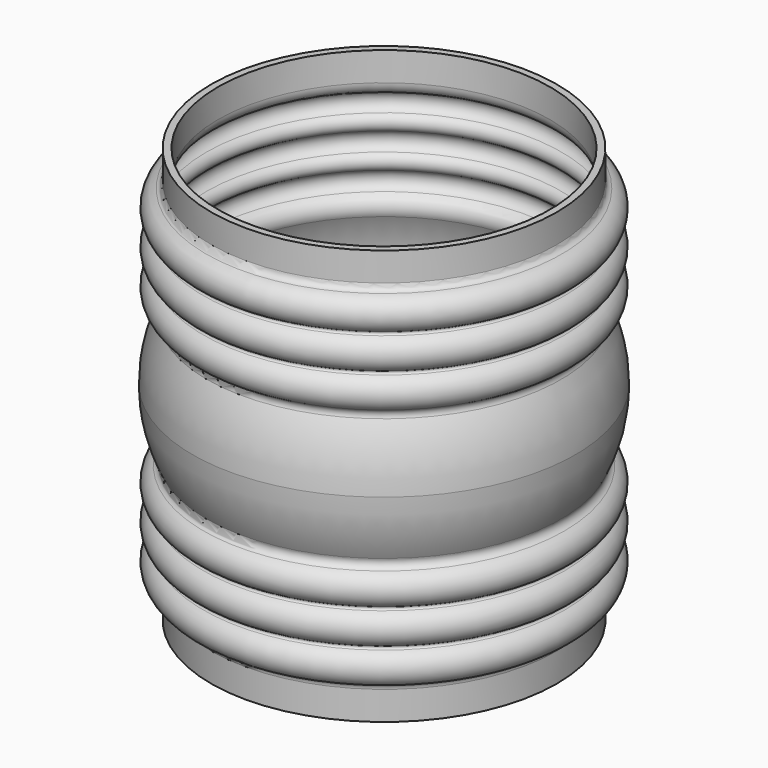
from build123d import *

# Parameters (mm, degrees)
F2_T = -2.54


with BuildPart() as f1:
    # F0 (on Front) → F1 (revolve)
    with BuildSketch(Plane.XZ):
        with BuildLine():
            Line((-63.5, 0), (0, 0))
            Line((0, 0), (0, 76.2))
            Line((0, 76.2), (0, 152.4))
            Line((0, 152.4), (-63.5, 152.4))
            Line((-63.5, 152.4), (-63.5, 141.869419))
            ThreePointArc((-63.5, 141.869419), (-64.003469, 140.351479), (-65.314286, 139.435299))
            ThreePointArc((-65.314286, 139.435299), (-69.825038, 133.912489), (-66.359659, 127.680357))
            ThreePointArc((-66.359659, 127.680357), (-65.940818, 127), (-66.359659, 126.319643))
            ThreePointArc((-66.359659, 126.319643), (-69.85, 120.65), (-66.359659, 114.980357))
            ThreePointArc((-66.359659, 114.980357), (-65.940818, 114.3), (-66.359659, 113.619643))
            ThreePointArc((-66.359659, 113.619643), (-69.849422, 107.864318), (-66.205629, 102.205257))
            ThreePointArc((-66.205629, 102.205257), (-64.889107, 100.742516), (-65.012548, 98.778438))
            ThreePointArc((-65.012548, 98.778438), (-68.964868, 87.795317), (-70.305909, 76.2))
            ThreePointArc((-70.305909, 76.2), (-68.964868, 64.604683), (-65.012548, 53.621562))
            ThreePointArc((-65.012548, 53.621562), (-64.889107, 51.657484), (-66.205629, 50.194743))
            ThreePointArc((-66.205629, 50.194743), (-69.849422, 44.535682), (-66.359659, 38.780357))
            ThreePointArc((-66.359659, 38.780357), (-65.940818, 38.1), (-66.359659, 37.419643))
            ThreePointArc((-66.359659, 37.419643), (-69.85, 31.75), (-66.359659, 26.080357))
            ThreePointArc((-66.359659, 26.080357), (-65.940818, 25.4), (-66.359659, 24.719643))
            ThreePointArc((-66.359659, 24.719643), (-69.825038, 18.487511), (-65.314286, 12.964701))
            ThreePointArc((-65.314286, 12.964701), (-64.003469, 12.048521), (-63.5, 10.530581))
            Line((-63.5, 10.530581), (-63.5, 0))
        make_face()
    revolve(axis=Axis((0, 0, 38.1), (0, 0, 1)))

    # F2
    f2_openings = [f1.faces().sort_by_distance(p)[0] for p in [
        (0, 0, 152.4),
        (0, 0, 0),
    ]]
    offset(amount=F2_T, openings=f2_openings)


solid = f1.part
